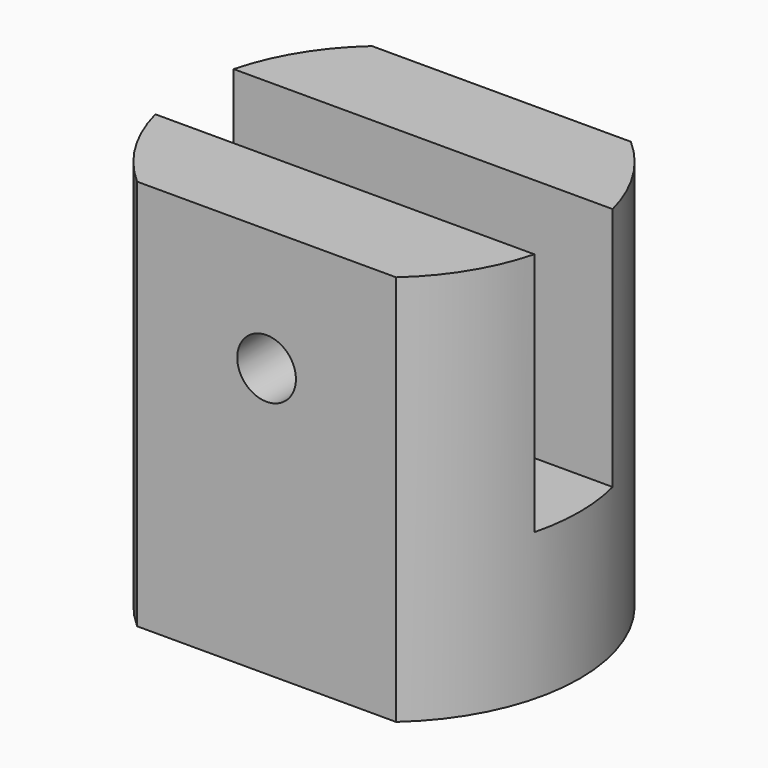
from build123d import *

# Parameters (mm, degrees)
F1_DEPTH = 8
F2_W     = 9.163002
F2_H     = 2
F3_DEPTH = 5
F4_R     = 0.6
F5_DEPTH = 6.001
F6_R     = 1
F7_DEPTH = 2
F8_R     = 0.85
F9_DEPTH = 3.001


with BuildPart() as f1:
    # F0 (on Top) → F1 (new body)
    with BuildSketch(Plane.XY):
        with BuildLine():
            Line((2.645751, 3), (-2.645751, 3))
            ThreePointArc((-2.645751, 3), (-4, 0), (-2.645751, -3))
            Line((-2.645751, -3), (2.645751, -3))
            ThreePointArc((2.645751, -3), (4, 0), (2.645751, 3))
        make_face()
    extrude(amount=F1_DEPTH)

    # F2 (on face) → F3 (cut)
    with BuildSketch(Plane.XY.offset(8)):
        Rectangle(F2_W, F2_H)
    extrude(amount=-F3_DEPTH, mode=Mode.SUBTRACT)

    # F4 (on face) → F5 (cut, through all)
    with BuildSketch(Plane.XZ.offset(3)):
        with Locations((0, 5.5)):
            Circle(F4_R)
    extrude(amount=-F5_DEPTH, mode=Mode.SUBTRACT)

    # F6 (on face) → F7 (cut, through all)
    with BuildSketch(Plane(origin=(0, 3, 0), x_dir=(-1, 0, 0), z_dir=(0, 1, 0))):
        with Locations((0, 5.5)):
            Circle(F6_R)
    extrude(amount=-F7_DEPTH, mode=Mode.SUBTRACT)

    # F8 (on face) → F9 (cut, through all)
    with BuildSketch(Plane.XY.offset(3)):
        Circle(F8_R)
    extrude(amount=-F9_DEPTH, mode=Mode.SUBTRACT)


solid = f1.part
